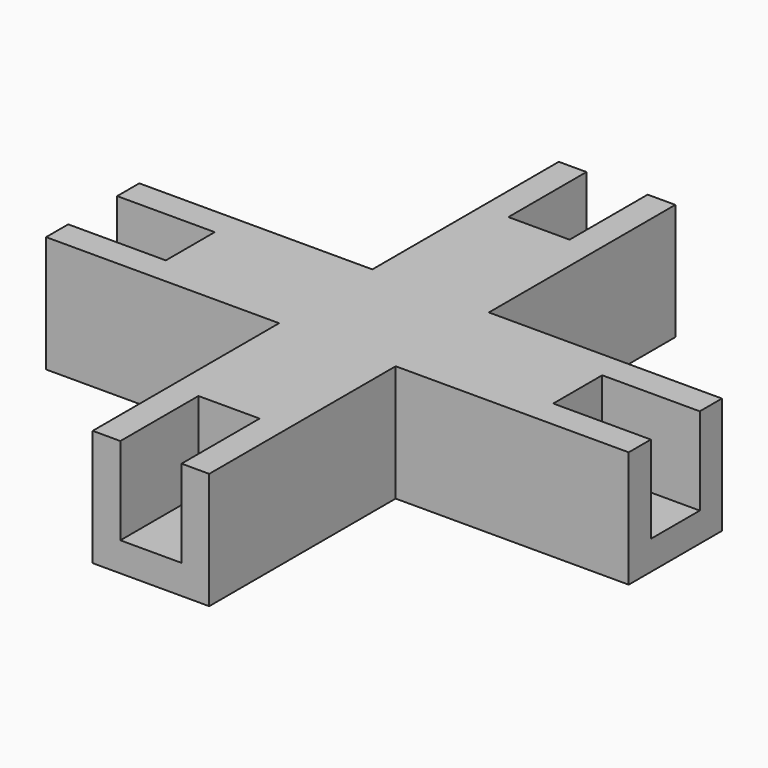
from build123d import *

# Parameters (mm, degrees)
PAD328_DEPTH            = 1
PAD329_DEPTH            = 3
PAD330_DEPTH            = 3
BODY056_PLACEMENT_ANGLE = 180


with BuildPart() as part:
    # Sketch485 → Pad328 (new body)
    with BuildSketch(Plane.XY.offset(-28)):
        Polygon((-2, 2), (-2, 10), (2, 10), (2, 2), (10, 2), (10, -2), (2, -2), (2, -10), (-2, -10), (-2, -2), (-10, -2), (-10, 2), align=None)
    extrude(amount=PAD328_DEPTH)

    # Sketch486 (on Face13 of Pad328) → Pad329 (join)
    with BuildSketch(Plane(origin=(0, 0, -28), x_dir=(1, 0, 0), z_dir=(0, 0, -1))):
        Polygon((-2, 10), (-2, 2), (-10, 2), (-10, 1.05), (-1.05, 1.05), (-1.05, 10), align=None)
        Polygon((-10, -2), (-2, -2), (-2, -10), (-1.05, -10), (-1.05, -1.05), (-10, -1.05), align=None)
        Polygon((2, -10), (2, -2), (10, -2), (10, -1.05), (1.05, -1.05), (1.05, -10), align=None)
        Polygon((10, 2), (2, 2), (2, 10), (1.05, 10), (1.05, 1.05), (10, 1.05), align=None)
    extrude(amount=PAD329_DEPTH)

    # Sketch487 (on Face3 of Pad329) → Pad330 (join)
    with BuildSketch(Plane(origin=(0, 0, -28), x_dir=(1, 0, 0), z_dir=(0, 0, -1))):
        Polygon((-6.65, 1.05), (-6.65, -1.05), (-1.05, -1.05), (-1.05, -6.65), (1.05, -6.65), (1.05, -1.05), (6.65, -1.05), (6.65, 1.05), (1.05, 1.05), (1.05, 6.65), (-1.05, 6.65), (-1.05, 1.05), align=None)
    extrude(amount=PAD330_DEPTH)


with BuildPart() as part_1:
    # Body056 placement: moved
    add(part.part.moved(Location((97.37, 73, -44))).rotate(Axis((97.37, 73, -44), (1, 0, 0)), BODY056_PLACEMENT_ANGLE))


solid = part_1.part
